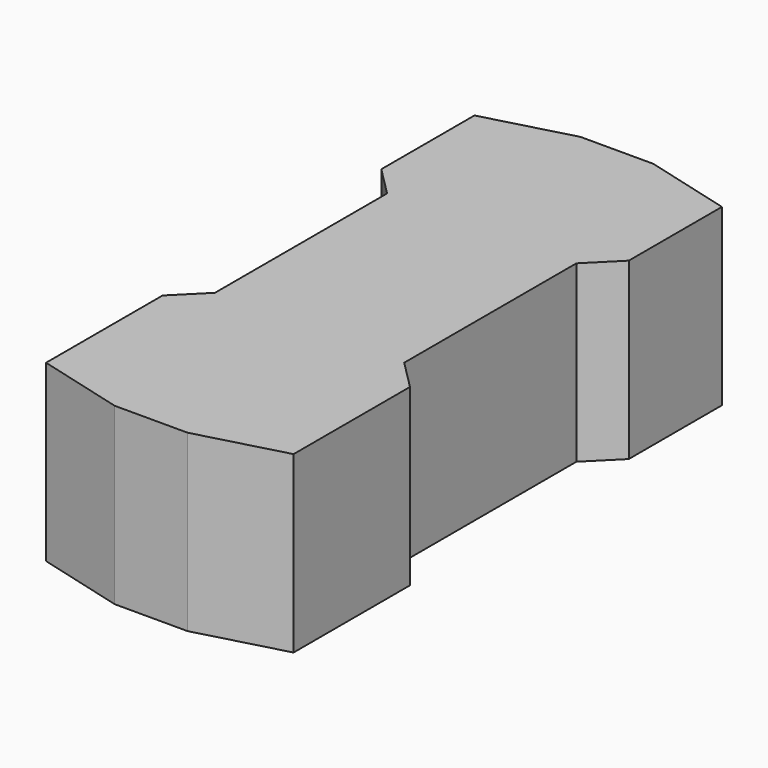
from build123d import *

# Parameters (mm, degrees)
F1_DEPTH = 60


with BuildPart() as f1:
    # F0 (on Top) → F1 (new body)
    with BuildSketch(Plane.XY):
        Polygon((-12.5, -100), (12.5, -100), (42.5, -91.961524), (42.5, -41.961524), (32.5, -31.961524), (32.5, 41.961524), (42.5, 51.961524), (42.5, 91.961524), (12.5, 100), (-12.5, 100), (-42.5, 91.961524), (-42.5, 51.961524), (-32.5, 41.961524), (-32.5, -31.961524), (-42.5, -41.961524), (-42.5, -91.961524), align=None)
    extrude(amount=F1_DEPTH)


solid = f1.part
